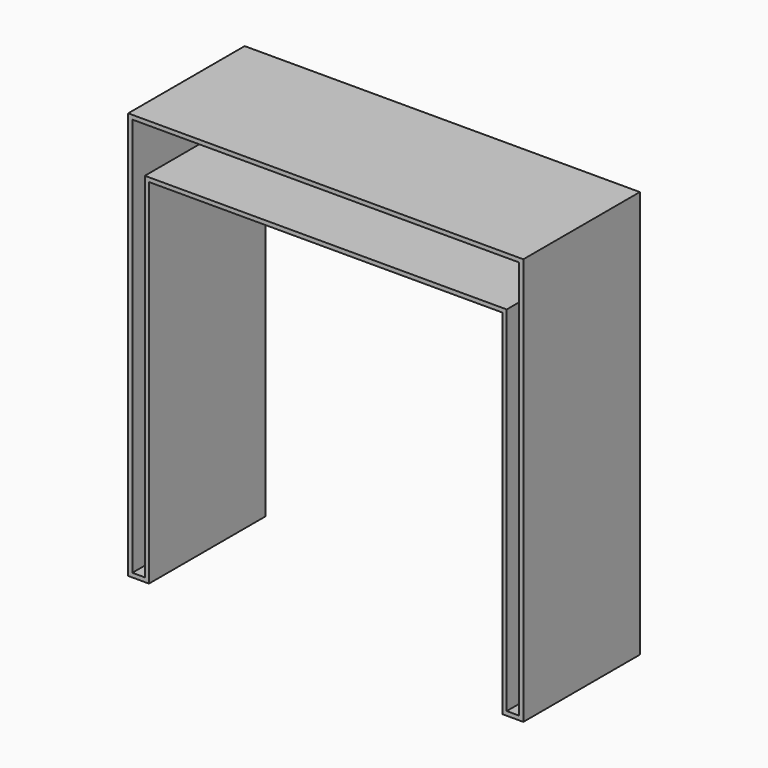
from build123d import *

# Parameters (mm, degrees)
F0_W     = 950
F0_H     = 350
F1_DEPTH = 900
F2_T     = -50
F3_W     = 950
F3_H     = 350
F4_DEPTH = 79.1636947542
F5_T     = -10


with BuildPart() as f1:
    # F0 (on Top) → F1 (new body)
    with BuildSketch(Plane.XY):
        Rectangle(F0_W, F0_H)
    extrude(amount=F1_DEPTH)

    # F2
    f2_openings = [f1.faces().sort_by_distance(p)[0] for p in [
        (0, -175, 450),
        (0, 0, 0),
        (0, 175, 450),
    ]]
    offset(amount=F2_T, openings=f2_openings)

    # F3 (on face) → F4 (join)
    with BuildSketch(Plane.XY.offset(900)):
        Rectangle(F3_W, F3_H)
    extrude(amount=F4_DEPTH)

    # F5
    f5_openings = [f1.faces().sort_by_distance(p)[0] for p in [
        (-450, -175, 13.642806),
    ]]
    offset(amount=F5_T, openings=f5_openings, kind=Kind.INTERSECTION)


solid = f1.part
